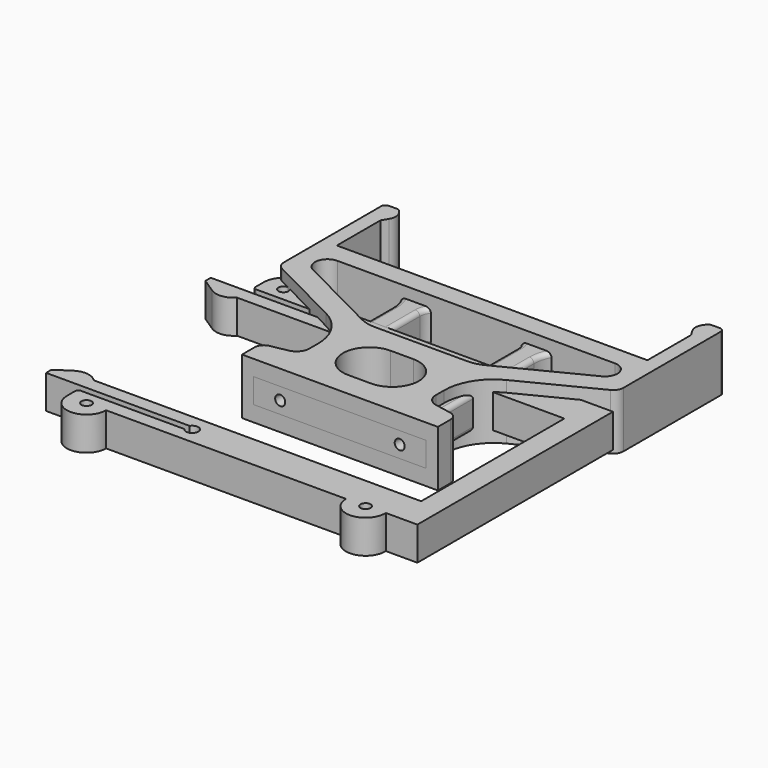
from build123d import *

# Parameters (mm, degrees)
PAD_DEPTH       = 5
SKETCH001_R     = 0.9
POCKET_DEPTH    = 5
PAD001_DEPTH    = 3
SKETCH003_R     = 0.9
POCKET001_DEPTH = 5
FILLET_R        = 0.8
SKETCH004_R     = 0.9
PAD002_DEPTH    = 3


with BuildPart() as body:
    # Sketch → Pad (new body, symmetric)
    with BuildSketch(Plane.XY):
        with BuildLine():
            Line((-17.5, 0), (0, 0))
            Line((0, 4.422029), (0, 0))
            Line((-2.046695, 4.422029), (0, 4.422029))
            ThreePointArc((-2.046695, 13.857489), (-6.764425, 9.139759), (-2.046695, 4.422029))
            Line((-2.046695, 13.857489), (0, 13.857489))
            Line((0.336421, 18.061729), (0, 13.857489))
            Line((-8.279875, 18.061729), (0.336421, 18.061729))
            ThreePointArc((-11.060709, 18.728046), (-9.709649, 18.230633), (-8.279875, 18.061729))
            Line((-25.806076, 26.224745), (-11.060709, 18.728046))
            ThreePointArc((-24.797099, 30.435648), (-26.962148, 28.728084), (-25.806076, 26.224745))
            Line((-24.797099, 30.435648), (0, 30.435648))
            Line((0, 34), (0, 30.435648))
            Line((-27.75, 34), (0, 34))
            Line((-27.75, 34), (-27.75, 43.75))
            Line((-27.75, 43.75), (-27.085448, 44.843385))
            ThreePointArc((-27.085448, 44.843385), (-26.779623, 46.009426), (-27.161989, 47.152658))
            Line((-27.161989, 47.152658), (-27.406035, 47.500059))
            ThreePointArc((-27.406035, 47.500059), (-27.746346, 47.797812), (-28.18561, 47.905122))
            Line((-28.18561, 47.905122), (-29.564709, 47.905122))
            ThreePointArc((-29.564709, 47.905122), (-30.116387, 47.676609), (-30.3449, 47.124931))
            Line((-30.3449, 47.124931), (-30.3449, 43.660675))
            Line((-30.3449, 43.660675), (-30.3449, 25.406825))
            ThreePointArc((-30.3449, 25.406825), (-30.072771, 24.442745), (-29.336711, 23.763244))
            Line((-29.336711, 23.763244), (-16.105833, 17.036527))
            ThreePointArc((-11.281981, 9.172534), (-12.58403, 13.785341), (-16.105833, 17.036527))
            Line((-11.281981, 9.172534), (-11.281981, 7.301336))
            ThreePointArc((-13.187212, 5.000708), (-11.820125, 5.807784), (-11.281981, 7.301336))
            Line((-16.139014, 4.440756), (-13.187212, 5.000708))
            ThreePointArc((-16.139014, 4.440756), (-17.115581, 3.864228), (-17.5, 2.797322))
            Line((-17.5, 0), (-17.5, 2.797322))
        make_face()
    extrude(amount=PAD_DEPTH, both=True)

    # Sketch001 (on Face3 of Pad) → Pocket (cut)
    with BuildSketch(Plane.XZ):
        with Locations((-10.68, 0)):
            Circle(SKETCH001_R)
    extrude(amount=-POCKET_DEPTH, mode=Mode.SUBTRACT)

    # Mirrored: Body across YZ


with BuildPart() as body_1:
    add(body.part)
    add(body.part.mirror(Plane.YZ))


with BuildPart() as body001:
    # Sketch002 → Pad001 (new body, symmetric)
    with BuildSketch(Plane.XY):
        with BuildLine():
            Line((-15.40787, 0), (0, 0))
            Line((0, 0), (0, 2.4))
            Line((0, 2.4), (-5.762488, 2.4))
            ThreePointArc((-8.68, 5.317512), (-7.82548, 3.25452), (-5.762488, 2.4))
            Line((-8.68, 17), (-8.68, 5.317512))
            Line((-12.68, 17), (-8.68, 17))
            Line((-12.68, 17), (-12.68, 6.527795))
            ThreePointArc((-15.114915, 1.637117), (-13.322394, 3.796149), (-12.68, 6.527795))
            Line((-15.7866, 1.129761), (-15.114915, 1.637117))
            ThreePointArc((-15.7866, 1.129761), (-16.003646, 0.428639), (-15.40787, 0))
        make_face()
    extrude(amount=PAD001_DEPTH, both=True)

    # Sketch003 (on Face2 of Pad001) → Pocket001 (cut)
    with BuildSketch(Plane.XZ):
        with Locations((-10.68, 0)):
            Circle(SKETCH003_R)
    extrude(amount=-POCKET001_DEPTH, mode=Mode.SUBTRACT)

    # Fillet
    fillet_edges = [body001.edges().sort_by_distance(p)[0] for p in [
        (-12.68, 11.763897, 3),
        (-13.322394, 3.796149, 3),
        (-16.003646, 0.428639, 3),
        (-7.703935, 0, 3),
        (-2.881244, 2.4, 3),
        (-7.82548, 3.25452, 3),
        (-8.68, 11.158756, 3),
        (-12.68, 11.763897, -3),
        (-13.322394, 3.796149, -3),
        (-16.003646, 0.428639, -3),
        (-7.703935, 0, -3),
        (-7.82548, 3.25452, -3),
        (-8.68, 11.158756, -3),
        (-2.881244, 2.4, -3),
    ]]
    fillet(fillet_edges, radius=FILLET_R)

    # Mirrored001: Body001 across face of Fillet


with BuildPart() as body001_1:
    add(body001.part)
    add(body001.part.mirror(Plane(origin=(0, 1.2, 0), x_dir=(0, 1, 0), z_dir=(1, 0, 0))))

    # Mirrored002: Body001 across face of Mirrored001


with BuildPart() as body001_2:
    add(body001_1.part)
    add(body001_1.part.mirror(Plane(origin=(-10.68, 17, 0), x_dir=(-1, 0, 0), z_dir=(0, 1, 0))))


with BuildPart() as body002:
    # Sketch004 → Pad002 (new body, symmetric)
    with BuildSketch(Plane.XY):
        with BuildLine():
            Line((27.31074, -16), (-31.18926, -16))
            ThreePointArc((-31.18926, -16), (-33.136313, -15.021433), (-35.256346, -15.525488))
            Line((-37.795578, -17.2), (-35.256346, -15.525488))
            Line((-37.795578, -17.2), (-37.795578, -18.4))
            Line((-12.135905, -18.4), (-37.795578, -18.4))
            ThreePointArc((-12.135905, -19.6), (-10.097957, -19), (-12.135905, -18.4))
            Line((-30.654977, -19.6), (-12.135905, -19.6))
            ThreePointArc((-30.654977, -19.6), (-31.032772, -19.756488), (-31.18926, -20.134283))
            Line((-31.18926, -20.134283), (-31.18926, -22))
            ThreePointArc((-31.18926, -22), (-27.68926, -25.5), (-24.18926, -22))
            Line((-24.18926, -22), (18.6777, -22))
            ThreePointArc((18.6777, -22), (22.255422, -25.499137), (25.674248, -21.844594))
            Line((25.674248, -21.844594), (31.31074, -21.844594))
            Line((31.31074, -21.844594), (31.31074, 0))
            Line((31.31074, 0), (27.31074, 0))
            Line((27.31074, 0), (27.31074, -16))
        make_face()
        with Locations((-27.68926, -22)):
            Circle(SKETCH004_R, mode=Mode.SUBTRACT)
        with Locations((22.1777, -22)):
            Circle(SKETCH004_R, mode=Mode.SUBTRACT)
    pad002 = extrude(amount=PAD002_DEPTH, both=True)

    # Mirrored003: Pad002 across face of Pad002
    add(pad002.mirror(Plane(origin=(29.31074, 0, 0), x_dir=(-1, 0, 0), z_dir=(0, 1, 0))))


solid = Compound([body_1.part, body001_2.part, body002.part])
